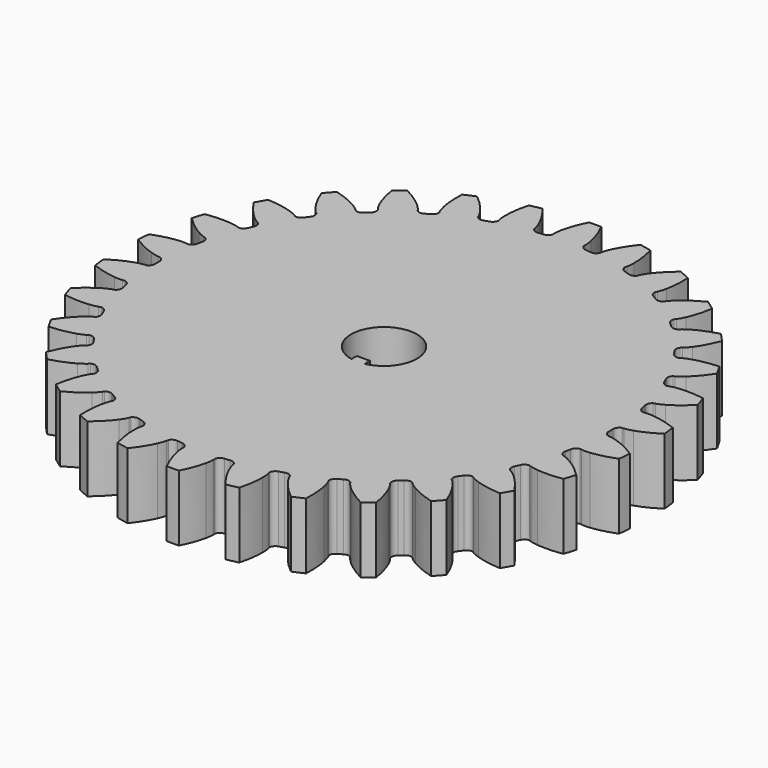
from build123d import *

# Parameters (mm, degrees)
PAD010_DEPTH = 190
PAD009_DEPTH = 10


with BuildPart() as shaft:
    # Sketch011 → Pad010 (new body)
    with BuildSketch(Plane(origin=(56, 0, -15), x_dir=(1, 0, 0), z_dir=(0, 0, 1))):
        with BuildLine():
            ThreePointArc((1, -4.898979), (0, 5), (-1, -4.898979))
            Line((-1, -4.898979), (-1, -3.898979))
            Line((-1, -3.898979), (1, -3.898979))
            Line((1, -3.898979), (1, -4.898979))
        make_face()
    extrude(amount=PAD010_DEPTH)


with BuildPart() as big_gear_hole:
    # InvoluteGear001 → Pad009 (new body)
    with BuildSketch(Plane(origin=(56, 0, 20), x_dir=(0.994522, 0.104528, 0), z_dir=(0, 0, 1))):
        with BuildLine():
            Line((34.920851, -2.352474), (35.210847, -2.370096))
            add(Edge.make_bspline(
                [(35.210847, -2.370096), (35.34891, -2.371906), (35.765082, -2.362435), (36.457725, -2.219265)],
                knots=[0, 0, 0, 0, 1, 1, 1, 1], degree=3))
            add(Edge.make_bspline(
                [(36.457725, -2.219265), (37.288232, -2.045697), (38.490143, -1.681478), (39.991928, -0.920792)],
                knots=[0, 0, 0, 0, 1, 1, 1, 1], degree=3))
            ThreePointArc((39.991928, -0.920792), (40.002527, 0), (39.991928, 0.920792))
            add(Edge.make_bspline(
                [(39.991928, 0.920792), (38.490143, 1.681478), (37.288232, 2.045697), (36.457725, 2.219265)],
                knots=[0, 0, 0, 0, 1, 1, 1, 1], degree=3))
            add(Edge.make_bspline(
                [(36.457725, 2.219265), (35.765082, 2.362435), (35.34891, 2.371906), (35.210847, 2.370096)],
                knots=[0, 0, 0, 0, 1, 1, 1, 1], degree=3))
            Line((35.210847, 2.370096), (34.920851, 2.352474))
            ThreePointArc((34.920851, 2.352474), (34.429753, 2.671588), (34.223866, 3.219878))
            ThreePointArc((34.223866, 3.219878), (34.18669, 3.593166), (34.145443, 3.966026))
            ThreePointArc((34.145443, 3.966026), (34.232835, 4.545141), (34.646854, 4.959386))
            Line((34.646854, 4.959386), (34.934177, 5.002443))
            add(Edge.make_bspline(
                [(34.934177, 5.002443), (35.069599, 5.029378), (35.474707, 5.125169), (36.122448, 5.409219)],
                knots=[0, 0, 0, 0, 1, 1, 1, 1], degree=3))
            add(Edge.make_bspline(
                [(36.122448, 5.409219), (36.898719, 5.751666), (37.99864, 6.357817), (39.309452, 7.414119)],
                knots=[0, 0, 0, 0, 1, 1, 1, 1], degree=3))
            ThreePointArc((39.309452, 7.414119), (39.128376, 8.316993), (38.926565, 9.21546))
            add(Edge.make_bspline(
                [(38.926565, 9.21546), (37.299442, 9.647284), (36.048071, 9.753653), (35.199625, 9.750756)],
                knots=[0, 0, 0, 0, 1, 1, 1, 1], degree=3))
            add(Edge.make_bspline(
                [(35.199625, 9.750756), (34.492351, 9.746788), (34.083305, 9.669526), (33.948635, 9.639051)],
                knots=[0, 0, 0, 0, 1, 1, 1, 1], degree=3))
            Line((33.948635, 9.639051), (33.66864, 9.56152))
            ThreePointArc((33.66864, 9.56152), (33.121926, 9.771556), (32.806542, 10.265058))
            ThreePointArc((32.806542, 10.265058), (32.692568, 10.622459), (32.5747, 10.978595))
            ThreePointArc((32.5747, 10.978595), (32.539777, 11.563225), (32.858623, 12.054498))
            Line((32.858623, 12.054498), (33.130715, 12.156352))
            add(Edge.make_bspline(
                [(33.130715, 12.156352), (33.257577, 12.210853), (33.633917, 12.388778), (34.208446, 12.801294)],
                knots=[0, 0, 0, 0, 1, 1, 1, 1], degree=3))
            add(Edge.make_bspline(
                [(34.208446, 12.801294), (34.896555, 13.297653), (35.846414, 14.119245), (36.908964, 15.424997)],
                knots=[0, 0, 0, 0, 1, 1, 1, 1], degree=3))
            ThreePointArc((36.908964, 15.424997), (36.544127, 16.270494), (36.159924, 17.107368))
            add(Edge.make_bspline(
                [(36.159924, 17.107368), (34.478576, 17.191458), (33.232435, 17.035327), (32.403133, 16.856092)],
                knots=[0, 0, 0, 0, 1, 1, 1, 1], degree=3))
            add(Edge.make_bspline(
                [(32.403133, 16.856092), (31.71214, 16.705161), (31.328095, 16.544541), (31.202705, 16.486732)],
                knots=[0, 0, 0, 0, 1, 1, 1, 1], degree=3))
            Line((31.202705, 16.486732), (30.944948, 16.352682))
            ThreePointArc((30.944948, 16.352682), (30.366512, 16.444459), (29.955415, 16.861605))
            ThreePointArc((29.955415, 16.861605), (29.769623, 17.1875), (29.580286, 17.511348))
            ThreePointArc((29.580286, 17.511348), (29.424575, 18.075941), (29.634312, 18.62277))
            Line((29.634312, 18.62277), (29.879281, 18.778969))
            add(Edge.make_bspline(
                [(29.879281, 18.778969), (29.99204, 18.858656), (30.323163, 19.110938), (30.79937, 19.63389)],
                knots=[0, 0, 0, 0, 1, 1, 1, 1], degree=3))
            add(Edge.make_bspline(
                [(30.79937, 19.63389), (31.369244, 20.26247), (32.127527, 21.263594), (32.895377, 22.761729)],
                knots=[0, 0, 0, 0, 1, 1, 1, 1], degree=3))
            ThreePointArc((32.895377, 22.761729), (32.362724, 23.512896), (31.812921, 24.251602))
            add(Edge.make_bspline(
                [(31.812921, 24.251602), (30.150831, 23.984282), (28.964383, 23.572476), (28.190468, 23.224736)],
                knots=[0, 0, 0, 0, 1, 1, 1, 1], degree=3))
            add(Edge.make_bspline(
                [(28.190468, 23.224736), (27.545955, 22.933438), (27.203698, 22.69648), (27.093067, 22.613865)],
                knots=[0, 0, 0, 0, 1, 1, 1, 1], degree=3))
            Line((27.093067, 22.613865), (26.868813, 22.429153))
            ThreePointArc((26.868813, 22.429153), (26.283935, 22.398661), (25.795092, 22.72122))
            ThreePointArc((25.795092, 22.72122), (25.545603, 23.001365), (25.293072, 23.27877))
            ThreePointArc((25.293072, 23.27877), (25.023378, 23.798651), (25.11484, 24.377138))
            Line((25.11484, 24.377138), (25.32198, 24.580855))
            add(Edge.make_bspline(
                [(25.32198, 24.580855), (25.415707, 24.682245), (25.687142, 24.997858), (26.044215, 25.608392)],
                knots=[0, 0, 0, 0, 1, 1, 1, 1], degree=3))
            add(Edge.make_bspline(
                [(26.044215, 25.608392), (26.470946, 26.341719), (27.004514, 27.478622), (27.444105, 29.103664)],
                knots=[0, 0, 0, 0, 1, 1, 1, 1], degree=3))
            ThreePointArc((27.444105, 29.103664), (26.766915, 29.727671), (26.075541, 30.335924))
            add(Edge.make_bspline(
                [(26.075541, 30.335924), (24.505351, 29.728879), (23.430449, 29.079395), (22.745745, 28.578348)],
                knots=[0, 0, 0, 0, 1, 1, 1, 1], degree=3))
            add(Edge.make_bspline(
                [(22.745745, 28.578348), (22.17588, 28.159413), (21.890368, 27.856474), (21.799331, 27.752663)],
                knots=[0, 0, 0, 0, 1, 1, 1, 1], degree=3))
            Line((21.799331, 27.752663), (21.618381, 27.525363))
            ThreePointArc((21.618381, 27.525363), (21.052625, 27.373934), (20.507401, 27.587808))
            ThreePointArc((20.507401, 27.587808), (20.205118, 27.809959), (19.900429, 28.028798))
            ThreePointArc((19.900429, 28.028798), (19.52854, 28.481247), (19.497728, 29.066107))
            Line((19.497728, 29.066107), (19.657987, 29.30844))
            add(Edge.make_bspline(
                [(19.657987, 29.30844), (19.728586, 29.427101), (19.928469, 29.792252), (20.150802, 30.463684)],
                knots=[0, 0, 0, 0, 1, 1, 1, 1], degree=3))
            add(Edge.make_bspline(
                [(20.150802, 30.463684), (20.415742, 31.269708), (20.701274, 32.492702), (20.793393, 34.173629)],
                knots=[0, 0, 0, 0, 1, 1, 1, 1], degree=3))
            ThreePointArc((20.793393, 34.173629), (20.001264, 34.643205), (19.198535, 35.094421))
            add(Edge.make_bspline(
                [(19.198535, 35.094421), (17.788869, 34.17418), (16.872491, 33.315405), (16.306923, 32.682949)],
                knots=[0, 0, 0, 0, 1, 1, 1, 1], degree=3))
            add(Edge.make_bspline(
                [(16.306923, 32.682949), (15.836613, 32.154687), (15.620324, 31.799007), (15.55286, 31.678536)],
                knots=[0, 0, 0, 0, 1, 1, 1, 1], degree=3))
            Line((15.55286, 31.678536), (15.423123, 31.418582))
            ThreePointArc((15.423123, 31.418582), (14.901213, 31.152835), (14.323437, 31.248677))
            ThreePointArc((14.323437, 31.248677), (13.981572, 31.403125), (13.638042, 31.553834))
            ThreePointArc((13.638042, 31.553834), (13.18021, 31.919075), (13.028473, 32.484749))
            Line((13.028473, 32.484749), (13.134845, 32.755106))
            add(Edge.make_bspline(
                [(13.134845, 32.755106), (13.17923, 32.885852), (13.298827, 33.284582), (13.376703, 33.987567)],
                knots=[0, 0, 0, 0, 1, 1, 1, 1], degree=3))
            add(Edge.make_bspline(
                [(13.376703, 33.987567), (13.468271, 34.831061), (13.493289, 36.086696), (13.23391, 37.750043)],
                knots=[0, 0, 0, 0, 1, 1, 1, 1], degree=3))
            ThreePointArc((13.23391, 37.750043), (12.361461, 38.044664), (11.48246, 38.319124))
            add(Edge.make_bspline(
                [(11.48246, 38.319124), (10.294928, 37.125906), (9.577124, 36.095371), (9.155411, 35.359148)],
                knots=[0, 0, 0, 0, 1, 1, 1, 1], degree=3))
            add(Edge.make_bspline(
                [(9.155411, 35.359148), (8.805209, 34.744647), (8.667598, 34.351771), (8.626655, 34.219906)],
                knots=[0, 0, 0, 0, 1, 1, 1, 1], degree=3))
            Line((8.626655, 34.219906), (8.553801, 33.938658))
            ThreePointArc((8.553801, 33.938658), (8.098547, 33.570207), (7.51347, 33.543828))
            ThreePointArc((7.51347, 33.543828), (7.146964, 33.623824), (6.779607, 33.699815))
            ThreePointArc((6.779607, 33.699815), (6.255842, 33.961886), (5.98981, 34.483651))
            Line((5.98981, 34.483651), (6.037648, 34.770216))
            add(Edge.make_bspline(
                [(6.037648, 34.770216), (6.053879, 34.907334), (6.087962, 35.322216), (6.017977, 36.02603)],
                knots=[0, 0, 0, 0, 1, 1, 1, 1], degree=3))
            add(Edge.make_bspline(
                [(6.017977, 36.02603), (5.932172, 36.87013), (5.695582, 38.103527), (5.096042, 39.676599)],
                knots=[0, 0, 0, 0, 1, 1, 1, 1], degree=3))
            ThreePointArc((5.096042, 39.676599), (4.181403, 39.783389), (3.264547, 39.869097))
            add(Edge.make_bspline(
                [(3.264547, 39.869097), (2.351049, 38.455052), (1.863191, 37.297797), (1.603763, 36.489982)],
                knots=[0, 0, 0, 0, 1, 1, 1, 1], degree=3))
            add(Edge.make_bspline(
                [(1.603763, 36.489982), (1.388976, 35.816099), (1.336055, 35.403197), (1.323423, 35.265701)],
                knots=[0, 0, 0, 0, 1, 1, 1, 1], degree=3))
            Line((1.323423, 35.265701), (1.310636, 34.975452))
            ThreePointArc((1.310636, 34.975452), (0.941936, 34.5204), (0.375129, 34.372953))
            ThreePointArc((0.375129, 34.372953), (0, 34.375), (-0.375129, 34.372953))
            ThreePointArc((-0.375129, 34.372953), (-0.941936, 34.5204), (-1.310636, 34.975452))
            Line((-1.310636, 34.975452), (-1.323423, 35.265701))
            add(Edge.make_bspline(
                [(-1.323423, 35.265701), (-1.336055, 35.403197), (-1.388976, 35.816099), (-1.603763, 36.489982)],
                knots=[0, 0, 0, 0, 1, 1, 1, 1], degree=3))
            add(Edge.make_bspline(
                [(-1.603763, 36.489982), (-1.863191, 37.297797), (-2.351049, 38.455052), (-3.264547, 39.869097)],
                knots=[0, 0, 0, 0, 1, 1, 1, 1], degree=3))
            ThreePointArc((-3.264547, 39.869097), (-4.181403, 39.783389), (-5.096042, 39.676599))
            add(Edge.make_bspline(
                [(-5.096042, 39.676599), (-5.695582, 38.103527), (-5.932172, 36.87013), (-6.017977, 36.02603)],
                knots=[0, 0, 0, 0, 1, 1, 1, 1], degree=3))
            add(Edge.make_bspline(
                [(-6.017977, 36.02603), (-6.087962, 35.322216), (-6.053879, 34.907334), (-6.037648, 34.770216)],
                knots=[0, 0, 0, 0, 1, 1, 1, 1], degree=3))
            Line((-6.037648, 34.770216), (-5.98981, 34.483651))
            ThreePointArc((-5.98981, 34.483651), (-6.255842, 33.961886), (-6.779607, 33.699815))
            ThreePointArc((-6.779607, 33.699815), (-7.146964, 33.623824), (-7.51347, 33.543828))
            ThreePointArc((-7.51347, 33.543828), (-8.098547, 33.570207), (-8.553801, 33.938658))
            Line((-8.553801, 33.938658), (-8.626655, 34.219906))
            add(Edge.make_bspline(
                [(-8.626655, 34.219906), (-8.667598, 34.351771), (-8.805209, 34.744647), (-9.155411, 35.359148)],
                knots=[0, 0, 0, 0, 1, 1, 1, 1], degree=3))
            add(Edge.make_bspline(
                [(-9.155411, 35.359148), (-9.577124, 36.095371), (-10.294928, 37.125906), (-11.48246, 38.319124)],
                knots=[0, 0, 0, 0, 1, 1, 1, 1], degree=3))
            ThreePointArc((-11.48246, 38.319124), (-12.361461, 38.044664), (-13.23391, 37.750043))
            add(Edge.make_bspline(
                [(-13.23391, 37.750043), (-13.493289, 36.086696), (-13.468271, 34.831061), (-13.376703, 33.987567)],
                knots=[0, 0, 0, 0, 1, 1, 1, 1], degree=3))
            add(Edge.make_bspline(
                [(-13.376703, 33.987567), (-13.298827, 33.284582), (-13.17923, 32.885852), (-13.134845, 32.755106)],
                knots=[0, 0, 0, 0, 1, 1, 1, 1], degree=3))
            Line((-13.134845, 32.755106), (-13.028473, 32.484749))
            ThreePointArc((-13.028473, 32.484749), (-13.18021, 31.919075), (-13.638042, 31.553834))
            ThreePointArc((-13.638042, 31.553834), (-13.981572, 31.403125), (-14.323437, 31.248677))
            ThreePointArc((-14.323437, 31.248677), (-14.901213, 31.152835), (-15.423123, 31.418582))
            Line((-15.423123, 31.418582), (-15.55286, 31.678536))
            add(Edge.make_bspline(
                [(-15.55286, 31.678536), (-15.620324, 31.799007), (-15.836613, 32.154687), (-16.306923, 32.682949)],
                knots=[0, 0, 0, 0, 1, 1, 1, 1], degree=3))
            add(Edge.make_bspline(
                [(-16.306923, 32.682949), (-16.872491, 33.315405), (-17.788869, 34.17418), (-19.198535, 35.094421)],
                knots=[0, 0, 0, 0, 1, 1, 1, 1], degree=3))
            ThreePointArc((-19.198535, 35.094421), (-20.001264, 34.643205), (-20.793393, 34.173629))
            add(Edge.make_bspline(
                [(-20.793393, 34.173629), (-20.701274, 32.492702), (-20.415742, 31.269708), (-20.150802, 30.463684)],
                knots=[0, 0, 0, 0, 1, 1, 1, 1], degree=3))
            add(Edge.make_bspline(
                [(-20.150802, 30.463684), (-19.928469, 29.792252), (-19.728586, 29.427101), (-19.657987, 29.30844)],
                knots=[0, 0, 0, 0, 1, 1, 1, 1], degree=3))
            Line((-19.657987, 29.30844), (-19.497728, 29.066107))
            ThreePointArc((-19.497728, 29.066107), (-19.52854, 28.481247), (-19.900429, 28.028798))
            ThreePointArc((-19.900429, 28.028798), (-20.205118, 27.809959), (-20.507401, 27.587808))
            ThreePointArc((-20.507401, 27.587808), (-21.052625, 27.373934), (-21.618381, 27.525363))
            Line((-21.618381, 27.525363), (-21.799331, 27.752663))
            add(Edge.make_bspline(
                [(-21.799331, 27.752663), (-21.890368, 27.856474), (-22.17588, 28.159413), (-22.745745, 28.578348)],
                knots=[0, 0, 0, 0, 1, 1, 1, 1], degree=3))
            add(Edge.make_bspline(
                [(-22.745745, 28.578348), (-23.430449, 29.079395), (-24.505351, 29.728879), (-26.075541, 30.335924)],
                knots=[0, 0, 0, 0, 1, 1, 1, 1], degree=3))
            ThreePointArc((-26.075541, 30.335924), (-26.766915, 29.727671), (-27.444105, 29.103664))
            add(Edge.make_bspline(
                [(-27.444105, 29.103664), (-27.004514, 27.478622), (-26.470946, 26.341719), (-26.044215, 25.608392)],
                knots=[0, 0, 0, 0, 1, 1, 1, 1], degree=3))
            add(Edge.make_bspline(
                [(-26.044215, 25.608392), (-25.687142, 24.997858), (-25.415707, 24.682245), (-25.32198, 24.580855)],
                knots=[0, 0, 0, 0, 1, 1, 1, 1], degree=3))
            Line((-25.32198, 24.580855), (-25.11484, 24.377138))
            ThreePointArc((-25.11484, 24.377138), (-25.023378, 23.798651), (-25.293072, 23.27877))
            ThreePointArc((-25.293072, 23.27877), (-25.545603, 23.001365), (-25.795092, 22.72122))
            ThreePointArc((-25.795092, 22.72122), (-26.283935, 22.398661), (-26.868813, 22.429153))
            Line((-26.868813, 22.429153), (-27.093067, 22.613865))
            add(Edge.make_bspline(
                [(-27.093067, 22.613865), (-27.203698, 22.69648), (-27.545955, 22.933438), (-28.190468, 23.224736)],
                knots=[0, 0, 0, 0, 1, 1, 1, 1], degree=3))
            add(Edge.make_bspline(
                [(-28.190468, 23.224736), (-28.964383, 23.572476), (-30.150831, 23.984282), (-31.812921, 24.251602)],
                knots=[0, 0, 0, 0, 1, 1, 1, 1], degree=3))
            ThreePointArc((-31.812921, 24.251602), (-32.362724, 23.512896), (-32.895377, 22.761729))
            add(Edge.make_bspline(
                [(-32.895377, 22.761729), (-32.127527, 21.263594), (-31.369244, 20.26247), (-30.79937, 19.63389)],
                knots=[0, 0, 0, 0, 1, 1, 1, 1], degree=3))
            add(Edge.make_bspline(
                [(-30.79937, 19.63389), (-30.323163, 19.110938), (-29.99204, 18.858656), (-29.879281, 18.778969)],
                knots=[0, 0, 0, 0, 1, 1, 1, 1], degree=3))
            Line((-29.879281, 18.778969), (-29.634312, 18.62277))
            ThreePointArc((-29.634312, 18.62277), (-29.424575, 18.075941), (-29.580286, 17.511348))
            ThreePointArc((-29.580286, 17.511348), (-29.769623, 17.1875), (-29.955415, 16.861605))
            ThreePointArc((-29.955415, 16.861605), (-30.366512, 16.444459), (-30.944948, 16.352682))
            Line((-30.944948, 16.352682), (-31.202705, 16.486732))
            add(Edge.make_bspline(
                [(-31.202705, 16.486732), (-31.328095, 16.544541), (-31.71214, 16.705161), (-32.403133, 16.856092)],
                knots=[0, 0, 0, 0, 1, 1, 1, 1], degree=3))
            add(Edge.make_bspline(
                [(-32.403133, 16.856092), (-33.232435, 17.035327), (-34.478576, 17.191458), (-36.159924, 17.107368)],
                knots=[0, 0, 0, 0, 1, 1, 1, 1], degree=3))
            ThreePointArc((-36.159924, 17.107368), (-36.544127, 16.270494), (-36.908964, 15.424997))
            add(Edge.make_bspline(
                [(-36.908964, 15.424997), (-35.846414, 14.119245), (-34.896555, 13.297653), (-34.208446, 12.801294)],
                knots=[0, 0, 0, 0, 1, 1, 1, 1], degree=3))
            add(Edge.make_bspline(
                [(-34.208446, 12.801294), (-33.633917, 12.388778), (-33.257577, 12.210853), (-33.130715, 12.156352)],
                knots=[0, 0, 0, 0, 1, 1, 1, 1], degree=3))
            Line((-33.130715, 12.156352), (-32.858623, 12.054498))
            ThreePointArc((-32.858623, 12.054498), (-32.539777, 11.563225), (-32.5747, 10.978595))
            ThreePointArc((-32.5747, 10.978595), (-32.692568, 10.622459), (-32.806542, 10.265058))
            ThreePointArc((-32.806542, 10.265058), (-33.121926, 9.771556), (-33.66864, 9.56152))
            Line((-33.66864, 9.56152), (-33.948635, 9.639051))
            add(Edge.make_bspline(
                [(-33.948635, 9.639051), (-34.083305, 9.669526), (-34.492351, 9.746788), (-35.199625, 9.750756)],
                knots=[0, 0, 0, 0, 1, 1, 1, 1], degree=3))
            add(Edge.make_bspline(
                [(-35.199625, 9.750756), (-36.048071, 9.753653), (-37.299442, 9.647284), (-38.926565, 9.21546)],
                knots=[0, 0, 0, 0, 1, 1, 1, 1], degree=3))
            ThreePointArc((-38.926565, 9.21546), (-39.128376, 8.316993), (-39.309452, 7.414119))
            add(Edge.make_bspline(
                [(-39.309452, 7.414119), (-37.99864, 6.357817), (-36.898719, 5.751666), (-36.122448, 5.409219)],
                knots=[0, 0, 0, 0, 1, 1, 1, 1], degree=3))
            add(Edge.make_bspline(
                [(-36.122448, 5.409219), (-35.474707, 5.125169), (-35.069599, 5.029378), (-34.934177, 5.002443)],
                knots=[0, 0, 0, 0, 1, 1, 1, 1], degree=3))
            Line((-34.934177, 5.002443), (-34.646854, 4.959386))
            ThreePointArc((-34.646854, 4.959386), (-34.232835, 4.545141), (-34.145443, 3.966026))
            ThreePointArc((-34.145443, 3.966026), (-34.18669, 3.593166), (-34.223866, 3.219878))
            ThreePointArc((-34.223866, 3.219878), (-34.429753, 2.671588), (-34.920851, 2.352474))
            Line((-34.920851, 2.352474), (-35.210847, 2.370096))
            add(Edge.make_bspline(
                [(-35.210847, 2.370096), (-35.34891, 2.371906), (-35.765082, 2.362435), (-36.457725, 2.219265)],
                knots=[0, 0, 0, 0, 1, 1, 1, 1], degree=3))
            add(Edge.make_bspline(
                [(-36.457725, 2.219265), (-37.288232, 2.045697), (-38.490143, 1.681478), (-39.991928, 0.920792)],
                knots=[0, 0, 0, 0, 1, 1, 1, 1], degree=3))
            ThreePointArc((-39.991928, 0.920792), (-40.002527, 0), (-39.991928, -0.920792))
            add(Edge.make_bspline(
                [(-39.991928, -0.920792), (-38.490143, -1.681478), (-37.288232, -2.045697), (-36.457725, -2.219265)],
                knots=[0, 0, 0, 0, 1, 1, 1, 1], degree=3))
            add(Edge.make_bspline(
                [(-36.457725, -2.219265), (-35.765082, -2.362435), (-35.34891, -2.371906), (-35.210847, -2.370096)],
                knots=[0, 0, 0, 0, 1, 1, 1, 1], degree=3))
            Line((-35.210847, -2.370096), (-34.920851, -2.352474))
            ThreePointArc((-34.920851, -2.352474), (-34.429753, -2.671588), (-34.223866, -3.219878))
            ThreePointArc((-34.223866, -3.219878), (-34.18669, -3.593166), (-34.145443, -3.966026))
            ThreePointArc((-34.145443, -3.966026), (-34.232835, -4.545141), (-34.646854, -4.959386))
            Line((-34.646854, -4.959386), (-34.934177, -5.002443))
            add(Edge.make_bspline(
                [(-34.934177, -5.002443), (-35.069599, -5.029378), (-35.474707, -5.125169), (-36.122448, -5.409219)],
                knots=[0, 0, 0, 0, 1, 1, 1, 1], degree=3))
            add(Edge.make_bspline(
                [(-36.122448, -5.409219), (-36.898719, -5.751666), (-37.99864, -6.357817), (-39.309452, -7.414119)],
                knots=[0, 0, 0, 0, 1, 1, 1, 1], degree=3))
            ThreePointArc((-39.309452, -7.414119), (-39.128376, -8.316993), (-38.926565, -9.21546))
            add(Edge.make_bspline(
                [(-38.926565, -9.21546), (-37.299442, -9.647284), (-36.048071, -9.753653), (-35.199625, -9.750756)],
                knots=[0, 0, 0, 0, 1, 1, 1, 1], degree=3))
            add(Edge.make_bspline(
                [(-35.199625, -9.750756), (-34.492351, -9.746788), (-34.083305, -9.669526), (-33.948635, -9.639051)],
                knots=[0, 0, 0, 0, 1, 1, 1, 1], degree=3))
            Line((-33.948635, -9.639051), (-33.66864, -9.56152))
            ThreePointArc((-33.66864, -9.56152), (-33.121926, -9.771556), (-32.806542, -10.265058))
            ThreePointArc((-32.806542, -10.265058), (-32.692568, -10.622459), (-32.5747, -10.978595))
            ThreePointArc((-32.5747, -10.978595), (-32.539777, -11.563225), (-32.858623, -12.054498))
            Line((-32.858623, -12.054498), (-33.130715, -12.156352))
            add(Edge.make_bspline(
                [(-33.130715, -12.156352), (-33.257577, -12.210853), (-33.633917, -12.388778), (-34.208446, -12.801294)],
                knots=[0, 0, 0, 0, 1, 1, 1, 1], degree=3))
            add(Edge.make_bspline(
                [(-34.208446, -12.801294), (-34.896555, -13.297653), (-35.846414, -14.119245), (-36.908964, -15.424997)],
                knots=[0, 0, 0, 0, 1, 1, 1, 1], degree=3))
            ThreePointArc((-36.908964, -15.424997), (-36.544127, -16.270494), (-36.159924, -17.107368))
            add(Edge.make_bspline(
                [(-36.159924, -17.107368), (-34.478576, -17.191458), (-33.232435, -17.035327), (-32.403133, -16.856092)],
                knots=[0, 0, 0, 0, 1, 1, 1, 1], degree=3))
            add(Edge.make_bspline(
                [(-32.403133, -16.856092), (-31.71214, -16.705161), (-31.328095, -16.544541), (-31.202705, -16.486732)],
                knots=[0, 0, 0, 0, 1, 1, 1, 1], degree=3))
            Line((-31.202705, -16.486732), (-30.944948, -16.352682))
            ThreePointArc((-30.944948, -16.352682), (-30.366512, -16.444459), (-29.955415, -16.861605))
            ThreePointArc((-29.955415, -16.861605), (-29.769623, -17.1875), (-29.580286, -17.511348))
            ThreePointArc((-29.580286, -17.511348), (-29.424575, -18.075941), (-29.634312, -18.62277))
            Line((-29.634312, -18.62277), (-29.879281, -18.778969))
            add(Edge.make_bspline(
                [(-29.879281, -18.778969), (-29.99204, -18.858656), (-30.323163, -19.110938), (-30.79937, -19.63389)],
                knots=[0, 0, 0, 0, 1, 1, 1, 1], degree=3))
            add(Edge.make_bspline(
                [(-30.79937, -19.63389), (-31.369244, -20.26247), (-32.127527, -21.263594), (-32.895377, -22.761729)],
                knots=[0, 0, 0, 0, 1, 1, 1, 1], degree=3))
            ThreePointArc((-32.895377, -22.761729), (-32.362724, -23.512896), (-31.812921, -24.251602))
            add(Edge.make_bspline(
                [(-31.812921, -24.251602), (-30.150831, -23.984282), (-28.964383, -23.572476), (-28.190468, -23.224736)],
                knots=[0, 0, 0, 0, 1, 1, 1, 1], degree=3))
            add(Edge.make_bspline(
                [(-28.190468, -23.224736), (-27.545955, -22.933438), (-27.203698, -22.69648), (-27.093067, -22.613865)],
                knots=[0, 0, 0, 0, 1, 1, 1, 1], degree=3))
            Line((-27.093067, -22.613865), (-26.868813, -22.429153))
            ThreePointArc((-26.868813, -22.429153), (-26.283935, -22.398661), (-25.795092, -22.72122))
            ThreePointArc((-25.795092, -22.72122), (-25.545603, -23.001365), (-25.293072, -23.27877))
            ThreePointArc((-25.293072, -23.27877), (-25.023378, -23.798651), (-25.11484, -24.377138))
            Line((-25.11484, -24.377138), (-25.32198, -24.580855))
            add(Edge.make_bspline(
                [(-25.32198, -24.580855), (-25.415707, -24.682245), (-25.687142, -24.997858), (-26.044215, -25.608392)],
                knots=[0, 0, 0, 0, 1, 1, 1, 1], degree=3))
            add(Edge.make_bspline(
                [(-26.044215, -25.608392), (-26.470946, -26.341719), (-27.004514, -27.478622), (-27.444105, -29.103664)],
                knots=[0, 0, 0, 0, 1, 1, 1, 1], degree=3))
            ThreePointArc((-27.444105, -29.103664), (-26.766915, -29.727671), (-26.075541, -30.335924))
            add(Edge.make_bspline(
                [(-26.075541, -30.335924), (-24.505351, -29.728879), (-23.430449, -29.079395), (-22.745745, -28.578348)],
                knots=[0, 0, 0, 0, 1, 1, 1, 1], degree=3))
            add(Edge.make_bspline(
                [(-22.745745, -28.578348), (-22.17588, -28.159413), (-21.890368, -27.856474), (-21.799331, -27.752663)],
                knots=[0, 0, 0, 0, 1, 1, 1, 1], degree=3))
            Line((-21.799331, -27.752663), (-21.618381, -27.525363))
            ThreePointArc((-21.618381, -27.525363), (-21.052625, -27.373934), (-20.507401, -27.587808))
            ThreePointArc((-20.507401, -27.587808), (-20.205118, -27.809959), (-19.900429, -28.028798))
            ThreePointArc((-19.900429, -28.028798), (-19.52854, -28.481247), (-19.497728, -29.066107))
            Line((-19.497728, -29.066107), (-19.657987, -29.30844))
            add(Edge.make_bspline(
                [(-19.657987, -29.30844), (-19.728586, -29.427101), (-19.928469, -29.792252), (-20.150802, -30.463684)],
                knots=[0, 0, 0, 0, 1, 1, 1, 1], degree=3))
            add(Edge.make_bspline(
                [(-20.150802, -30.463684), (-20.415742, -31.269708), (-20.701274, -32.492702), (-20.793393, -34.173629)],
                knots=[0, 0, 0, 0, 1, 1, 1, 1], degree=3))
            ThreePointArc((-20.793393, -34.173629), (-20.001264, -34.643205), (-19.198535, -35.094421))
            add(Edge.make_bspline(
                [(-19.198535, -35.094421), (-17.788869, -34.17418), (-16.872491, -33.315405), (-16.306923, -32.682949)],
                knots=[0, 0, 0, 0, 1, 1, 1, 1], degree=3))
            add(Edge.make_bspline(
                [(-16.306923, -32.682949), (-15.836613, -32.154687), (-15.620324, -31.799007), (-15.55286, -31.678536)],
                knots=[0, 0, 0, 0, 1, 1, 1, 1], degree=3))
            Line((-15.55286, -31.678536), (-15.423123, -31.418582))
            ThreePointArc((-15.423123, -31.418582), (-14.901213, -31.152835), (-14.323437, -31.248677))
            ThreePointArc((-14.323437, -31.248677), (-13.981572, -31.403125), (-13.638042, -31.553834))
            ThreePointArc((-13.638042, -31.553834), (-13.18021, -31.919075), (-13.028473, -32.484749))
            Line((-13.028473, -32.484749), (-13.134845, -32.755106))
            add(Edge.make_bspline(
                [(-13.134845, -32.755106), (-13.17923, -32.885852), (-13.298827, -33.284582), (-13.376703, -33.987567)],
                knots=[0, 0, 0, 0, 1, 1, 1, 1], degree=3))
            add(Edge.make_bspline(
                [(-13.376703, -33.987567), (-13.468271, -34.831061), (-13.493289, -36.086696), (-13.23391, -37.750043)],
                knots=[0, 0, 0, 0, 1, 1, 1, 1], degree=3))
            ThreePointArc((-13.23391, -37.750043), (-12.361461, -38.044664), (-11.48246, -38.319124))
            add(Edge.make_bspline(
                [(-11.48246, -38.319124), (-10.294928, -37.125906), (-9.577124, -36.095371), (-9.155411, -35.359148)],
                knots=[0, 0, 0, 0, 1, 1, 1, 1], degree=3))
            add(Edge.make_bspline(
                [(-9.155411, -35.359148), (-8.805209, -34.744647), (-8.667598, -34.351771), (-8.626655, -34.219906)],
                knots=[0, 0, 0, 0, 1, 1, 1, 1], degree=3))
            Line((-8.626655, -34.219906), (-8.553801, -33.938658))
            ThreePointArc((-8.553801, -33.938658), (-8.098547, -33.570207), (-7.51347, -33.543828))
            ThreePointArc((-7.51347, -33.543828), (-7.146964, -33.623824), (-6.779607, -33.699815))
            ThreePointArc((-6.779607, -33.699815), (-6.255842, -33.961886), (-5.98981, -34.483651))
            Line((-5.98981, -34.483651), (-6.037648, -34.770216))
            add(Edge.make_bspline(
                [(-6.037648, -34.770216), (-6.053879, -34.907334), (-6.087962, -35.322216), (-6.017977, -36.02603)],
                knots=[0, 0, 0, 0, 1, 1, 1, 1], degree=3))
            add(Edge.make_bspline(
                [(-6.017977, -36.02603), (-5.932172, -36.87013), (-5.695582, -38.103527), (-5.096042, -39.676599)],
                knots=[0, 0, 0, 0, 1, 1, 1, 1], degree=3))
            ThreePointArc((-5.096042, -39.676599), (-4.181403, -39.783389), (-3.264547, -39.869097))
            add(Edge.make_bspline(
                [(-3.264547, -39.869097), (-2.351049, -38.455052), (-1.863191, -37.297797), (-1.603763, -36.489982)],
                knots=[0, 0, 0, 0, 1, 1, 1, 1], degree=3))
            add(Edge.make_bspline(
                [(-1.603763, -36.489982), (-1.388976, -35.816099), (-1.336055, -35.403197), (-1.323423, -35.265701)],
                knots=[0, 0, 0, 0, 1, 1, 1, 1], degree=3))
            Line((-1.323423, -35.265701), (-1.310636, -34.975452))
            ThreePointArc((-1.310636, -34.975452), (-0.941936, -34.5204), (-0.375129, -34.372953))
            ThreePointArc((-0.375129, -34.372953), (0, -34.375), (0.375129, -34.372953))
            ThreePointArc((0.375129, -34.372953), (0.941936, -34.5204), (1.310636, -34.975452))
            Line((1.310636, -34.975452), (1.323423, -35.265701))
            add(Edge.make_bspline(
                [(1.323423, -35.265701), (1.336055, -35.403197), (1.388976, -35.816099), (1.603763, -36.489982)],
                knots=[0, 0, 0, 0, 1, 1, 1, 1], degree=3))
            add(Edge.make_bspline(
                [(1.603763, -36.489982), (1.863191, -37.297797), (2.351049, -38.455052), (3.264547, -39.869097)],
                knots=[0, 0, 0, 0, 1, 1, 1, 1], degree=3))
            ThreePointArc((3.264547, -39.869097), (4.181403, -39.783389), (5.096042, -39.676599))
            add(Edge.make_bspline(
                [(5.096042, -39.676599), (5.695582, -38.103527), (5.932172, -36.87013), (6.017977, -36.02603)],
                knots=[0, 0, 0, 0, 1, 1, 1, 1], degree=3))
            add(Edge.make_bspline(
                [(6.017977, -36.02603), (6.087962, -35.322216), (6.053879, -34.907334), (6.037648, -34.770216)],
                knots=[0, 0, 0, 0, 1, 1, 1, 1], degree=3))
            Line((6.037648, -34.770216), (5.98981, -34.483651))
            ThreePointArc((5.98981, -34.483651), (6.255842, -33.961886), (6.779607, -33.699815))
            ThreePointArc((6.779607, -33.699815), (7.146964, -33.623824), (7.51347, -33.543828))
            ThreePointArc((7.51347, -33.543828), (8.098547, -33.570207), (8.553801, -33.938658))
            Line((8.553801, -33.938658), (8.626655, -34.219906))
            add(Edge.make_bspline(
                [(8.626655, -34.219906), (8.667598, -34.351771), (8.805209, -34.744647), (9.155411, -35.359148)],
                knots=[0, 0, 0, 0, 1, 1, 1, 1], degree=3))
            add(Edge.make_bspline(
                [(9.155411, -35.359148), (9.577124, -36.095371), (10.294928, -37.125906), (11.48246, -38.319124)],
                knots=[0, 0, 0, 0, 1, 1, 1, 1], degree=3))
            ThreePointArc((11.48246, -38.319124), (12.361461, -38.044664), (13.23391, -37.750043))
            add(Edge.make_bspline(
                [(13.23391, -37.750043), (13.493289, -36.086696), (13.468271, -34.831061), (13.376703, -33.987567)],
                knots=[0, 0, 0, 0, 1, 1, 1, 1], degree=3))
            add(Edge.make_bspline(
                [(13.376703, -33.987567), (13.298827, -33.284582), (13.17923, -32.885852), (13.134845, -32.755106)],
                knots=[0, 0, 0, 0, 1, 1, 1, 1], degree=3))
            Line((13.134845, -32.755106), (13.028473, -32.484749))
            ThreePointArc((13.028473, -32.484749), (13.18021, -31.919075), (13.638042, -31.553834))
            ThreePointArc((13.638042, -31.553834), (13.981572, -31.403125), (14.323437, -31.248677))
            ThreePointArc((14.323437, -31.248677), (14.901213, -31.152835), (15.423123, -31.418582))
            Line((15.423123, -31.418582), (15.55286, -31.678536))
            add(Edge.make_bspline(
                [(15.55286, -31.678536), (15.620324, -31.799007), (15.836613, -32.154687), (16.306923, -32.682949)],
                knots=[0, 0, 0, 0, 1, 1, 1, 1], degree=3))
            add(Edge.make_bspline(
                [(16.306923, -32.682949), (16.872491, -33.315405), (17.788869, -34.17418), (19.198535, -35.094421)],
                knots=[0, 0, 0, 0, 1, 1, 1, 1], degree=3))
            ThreePointArc((19.198535, -35.094421), (20.001264, -34.643205), (20.793393, -34.173629))
            add(Edge.make_bspline(
                [(20.793393, -34.173629), (20.701274, -32.492702), (20.415742, -31.269708), (20.150802, -30.463684)],
                knots=[0, 0, 0, 0, 1, 1, 1, 1], degree=3))
            add(Edge.make_bspline(
                [(20.150802, -30.463684), (19.928469, -29.792252), (19.728586, -29.427101), (19.657987, -29.30844)],
                knots=[0, 0, 0, 0, 1, 1, 1, 1], degree=3))
            Line((19.657987, -29.30844), (19.497728, -29.066107))
            ThreePointArc((19.497728, -29.066107), (19.52854, -28.481247), (19.900429, -28.028798))
            ThreePointArc((19.900429, -28.028798), (20.205118, -27.809959), (20.507401, -27.587808))
            ThreePointArc((20.507401, -27.587808), (21.052625, -27.373934), (21.618381, -27.525363))
            Line((21.618381, -27.525363), (21.799331, -27.752663))
            add(Edge.make_bspline(
                [(21.799331, -27.752663), (21.890368, -27.856474), (22.17588, -28.159413), (22.745745, -28.578348)],
                knots=[0, 0, 0, 0, 1, 1, 1, 1], degree=3))
            add(Edge.make_bspline(
                [(22.745745, -28.578348), (23.430449, -29.079395), (24.505351, -29.728879), (26.075541, -30.335924)],
                knots=[0, 0, 0, 0, 1, 1, 1, 1], degree=3))
            ThreePointArc((26.075541, -30.335924), (26.766915, -29.727671), (27.444105, -29.103664))
            add(Edge.make_bspline(
                [(27.444105, -29.103664), (27.004514, -27.478622), (26.470946, -26.341719), (26.044215, -25.608392)],
                knots=[0, 0, 0, 0, 1, 1, 1, 1], degree=3))
            add(Edge.make_bspline(
                [(26.044215, -25.608392), (25.687142, -24.997858), (25.415707, -24.682245), (25.32198, -24.580855)],
                knots=[0, 0, 0, 0, 1, 1, 1, 1], degree=3))
            Line((25.32198, -24.580855), (25.11484, -24.377138))
            ThreePointArc((25.11484, -24.377138), (25.023378, -23.798651), (25.293072, -23.27877))
            ThreePointArc((25.293072, -23.27877), (25.545603, -23.001365), (25.795092, -22.72122))
            ThreePointArc((25.795092, -22.72122), (26.283935, -22.398661), (26.868813, -22.429153))
            Line((26.868813, -22.429153), (27.093067, -22.613865))
            add(Edge.make_bspline(
                [(27.093067, -22.613865), (27.203698, -22.69648), (27.545955, -22.933438), (28.190468, -23.224736)],
                knots=[0, 0, 0, 0, 1, 1, 1, 1], degree=3))
            add(Edge.make_bspline(
                [(28.190468, -23.224736), (28.964383, -23.572476), (30.150831, -23.984282), (31.812921, -24.251602)],
                knots=[0, 0, 0, 0, 1, 1, 1, 1], degree=3))
            ThreePointArc((31.812921, -24.251602), (32.362724, -23.512896), (32.895377, -22.761729))
            add(Edge.make_bspline(
                [(32.895377, -22.761729), (32.127527, -21.263594), (31.369244, -20.26247), (30.79937, -19.63389)],
                knots=[0, 0, 0, 0, 1, 1, 1, 1], degree=3))
            add(Edge.make_bspline(
                [(30.79937, -19.63389), (30.323163, -19.110938), (29.99204, -18.858656), (29.879281, -18.778969)],
                knots=[0, 0, 0, 0, 1, 1, 1, 1], degree=3))
            Line((29.879281, -18.778969), (29.634312, -18.62277))
            ThreePointArc((29.634312, -18.62277), (29.424575, -18.075941), (29.580286, -17.511348))
            ThreePointArc((29.580286, -17.511348), (29.769623, -17.1875), (29.955415, -16.861605))
            ThreePointArc((29.955415, -16.861605), (30.366512, -16.444459), (30.944948, -16.352682))
            Line((30.944948, -16.352682), (31.202705, -16.486732))
            add(Edge.make_bspline(
                [(31.202705, -16.486732), (31.328095, -16.544541), (31.71214, -16.705161), (32.403133, -16.856092)],
                knots=[0, 0, 0, 0, 1, 1, 1, 1], degree=3))
            add(Edge.make_bspline(
                [(32.403133, -16.856092), (33.232435, -17.035327), (34.478576, -17.191458), (36.159924, -17.107368)],
                knots=[0, 0, 0, 0, 1, 1, 1, 1], degree=3))
            ThreePointArc((36.159924, -17.107368), (36.544127, -16.270494), (36.908964, -15.424997))
            add(Edge.make_bspline(
                [(36.908964, -15.424997), (35.846414, -14.119245), (34.896555, -13.297653), (34.208446, -12.801294)],
                knots=[0, 0, 0, 0, 1, 1, 1, 1], degree=3))
            add(Edge.make_bspline(
                [(34.208446, -12.801294), (33.633917, -12.388778), (33.257577, -12.210853), (33.130715, -12.156352)],
                knots=[0, 0, 0, 0, 1, 1, 1, 1], degree=3))
            Line((33.130715, -12.156352), (32.858623, -12.054498))
            ThreePointArc((32.858623, -12.054498), (32.539777, -11.563225), (32.5747, -10.978595))
            ThreePointArc((32.5747, -10.978595), (32.692568, -10.622459), (32.806542, -10.265058))
            ThreePointArc((32.806542, -10.265058), (33.121926, -9.771556), (33.66864, -9.56152))
            Line((33.66864, -9.56152), (33.948635, -9.639051))
            add(Edge.make_bspline(
                [(33.948635, -9.639051), (34.083305, -9.669526), (34.492351, -9.746788), (35.199625, -9.750756)],
                knots=[0, 0, 0, 0, 1, 1, 1, 1], degree=3))
            add(Edge.make_bspline(
                [(35.199625, -9.750756), (36.048071, -9.753653), (37.299442, -9.647284), (38.926565, -9.21546)],
                knots=[0, 0, 0, 0, 1, 1, 1, 1], degree=3))
            ThreePointArc((38.926565, -9.21546), (39.128376, -8.316993), (39.309452, -7.414119))
            add(Edge.make_bspline(
                [(39.309452, -7.414119), (37.99864, -6.357817), (36.898719, -5.751666), (36.122448, -5.409219)],
                knots=[0, 0, 0, 0, 1, 1, 1, 1], degree=3))
            add(Edge.make_bspline(
                [(36.122448, -5.409219), (35.474707, -5.125169), (35.069599, -5.029378), (34.934177, -5.002443)],
                knots=[0, 0, 0, 0, 1, 1, 1, 1], degree=3))
            Line((34.934177, -5.002443), (34.646854, -4.959386))
            ThreePointArc((34.646854, -4.959386), (34.232835, -4.545141), (34.145443, -3.966026))
            ThreePointArc((34.145443, -3.966026), (34.18669, -3.593166), (34.223866, -3.219878))
            ThreePointArc((34.223866, -3.219878), (34.429753, -2.671588), (34.920851, -2.352474))
        make_face()
    extrude(amount=PAD009_DEPTH)

    # Cut001: cut Shaft
    add(shaft.part, mode=Mode.SUBTRACT)


solid = big_gear_hole.part
